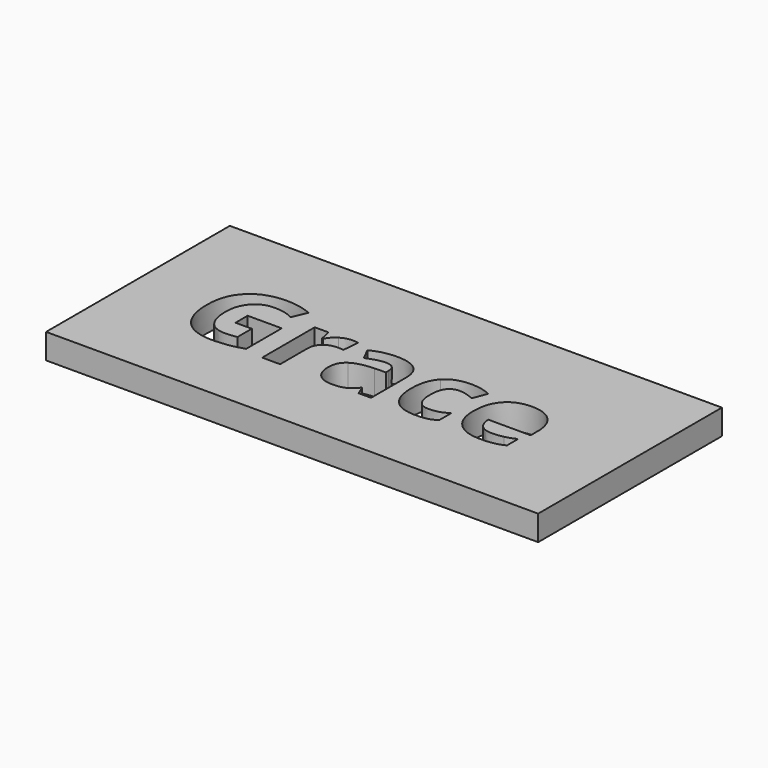
from build123d import *

# Parameters (mm, degrees)
F0_W     = 97.8876724839
F0_H     = 45.6908610649
F1_DEPTH = 5


with BuildPart() as f1:
    # F0 (on Top) → F1 (new body)
    with BuildSketch(Plane.XY):
        with Locations((1.2231161818, -8.5958049167)):
            Rectangle(F0_W, F0_H)
        with BuildLine():
            Line((-26.666582018, -10.6564535441), (-26.666582018, -7.637935464))
            Line((-26.666582018, -7.637935464), (-19.8852024899, -7.637935464))
            Line((-19.8852024899, -7.637935464), (-19.8852024899, -16.4989879196))
            add(Edge.make_bspline(
                [(-19.8852024899, -16.4989879196), (-21.53472724, -17.0376082461), (-22.9897502054, -17.2545525443)],
                knots=[0, 0, 0, 1, 1, 1], degree=2))
            add(Edge.make_bspline(
                [(-22.9897502054, -17.2545525443), (-24.4447731709, -17.4714968425), (-25.9633832583, -17.4714968425)],
                knots=[0, 0, 0, 1, 1, 1], degree=2))
            add(Edge.make_bspline(
                [(-25.9633832583, -17.4714968425), (-29.8309764364, -17.4714968425), (-31.8713749652, -15.1973221304)],
                knots=[0, 0, 0, 1, 1, 1], degree=2))
            add(Edge.make_bspline(
                [(-31.8713749652, -15.1973221304), (-33.9117734939, -12.9231474183), (-33.9117734939, -8.666550671)],
                knots=[0, 0, 0, 1, 1, 1], degree=2))
            add(Edge.make_bspline(
                [(-33.9117734939, -8.666550671), (-33.9117734939, -4.5296473295), (-31.5440883084, -2.2161982186)],
                knots=[0, 0, 0, 1, 1, 1], degree=2))
            add(Edge.make_bspline(
                [(-31.5440883084, -2.2161982186), (-29.1764031229, 0.0972508923), (-24.9833934975, 0.0972508923)],
                knots=[0, 0, 0, 1, 1, 1], degree=2))
            add(Edge.make_bspline(
                [(-24.9833934975, 0.0972508923), (-22.3501385677, 0.0972508923), (-19.9076450035, -0.9538068283)],
                knots=[0, 0, 0, 1, 1, 1], degree=2))
            Line((-19.9076450035, -0.9538068283), (-21.1120599004, -3.8526315024))
            add(Edge.make_bspline(
                [(-21.1120599004, -3.8526315024), (-22.9822693676, -2.9175267688), (-25.0058360111, -2.9175267688)],
                knots=[0, 0, 0, 1, 1, 1], degree=2))
            add(Edge.make_bspline(
                [(-25.0058360111, -2.9175267688), (-27.3548191019, -2.9175267688), (-28.7686974591, -4.4959835591)],
                knots=[0, 0, 0, 1, 1, 1], degree=2))
            add(Edge.make_bspline(
                [(-28.7686974591, -4.4959835591), (-30.1825758163, -6.0744403494), (-30.1825758163, -8.7376186307)],
                knots=[0, 0, 0, 1, 1, 1], degree=2))
            add(Edge.make_bspline(
                [(-30.1825758163, -8.7376186307), (-30.1825758163, -11.5204903179), (-29.0436182508, -12.9867345402)],
                knots=[0, 0, 0, 1, 1, 1], degree=2))
            add(Edge.make_bspline(
                [(-29.0436182508, -12.9867345402), (-27.9046606852, -14.4529787625), (-25.7314772844, -14.4529787625)],
                knots=[0, 0, 0, 1, 1, 1], degree=2))
            add(Edge.make_bspline(
                [(-25.7314772844, -14.4529787625), (-24.5943899283, -14.4529787625), (-23.4273792208, -14.2210727885)],
                knots=[0, 0, 0, 1, 1, 1], degree=2))
            Line((-23.4273792208, -14.2210727885), (-23.4273792208, -10.6564535441))
            Line((-23.4273792208, -10.6564535441), (-26.666582018, -10.6564535441))
        make_face(mode=Mode.SUBTRACT)
        with BuildLine():
            add(Edge.make_bspline(
                [(-11.0559435953, -4.5951046609), (-10.0217177599, -3.9236994622), (-8.8060816063, -3.9236994622)],
                knots=[0, 0, 0, 1, 1, 1], degree=2))
            add(Edge.make_bspline(
                [(-8.8060816063, -3.9236994622), (-8.080440333, -3.9236994622), (-7.6016667094, -4.0284311923)],
                knots=[0, 0, 0, 1, 1, 1], degree=2))
            Line((-7.6016667094, -4.0284311923), (-7.8709768727, -7.3686253007))
            add(Edge.make_bspline(
                [(-7.8709768727, -7.3686253007), (-8.304865469, -7.2526723138), (-8.9220345932, -7.2526723138)],
                knots=[0, 0, 0, 1, 1, 1], degree=2))
            add(Edge.make_bspline(
                [(-8.9220345932, -7.2526723138), (-10.6276656273, -7.2526723138), (-11.5814724556, -8.1298005539)],
                knots=[0, 0, 0, 1, 1, 1], degree=2))
            add(Edge.make_bspline(
                [(-11.5814724556, -8.1298005539), (-12.5352792838, -9.006928794), (-12.5352792838, -10.5853855843)],
                knots=[0, 0, 0, 1, 1, 1], degree=2))
            Line((-12.5352792838, -10.5853855843), (-12.5352792838, -17.2358504497))
            Line((-12.5352792838, -17.2358504497), (-16.0998985283, -17.2358504497))
            Line((-16.0998985283, -17.2358504497), (-16.0998985283, -4.1668266929))
            Line((-16.0998985283, -4.1668266929), (-13.3993160577, -4.1668266929))
            Line((-13.3993160577, -4.1668266929), (-12.8719169879, -6.3661930263))
            Line((-12.8719169879, -6.3661930263), (-12.699857717, -6.3661930263))
            add(Edge.make_bspline(
                [(-12.699857717, -6.3661930263), (-12.0901694306, -5.2665098596), (-11.0559435953, -4.5951046609)],
                knots=[0, 0, 0, 1, 1, 1], degree=2))
        make_face(mode=Mode.SUBTRACT)
        with BuildLine():
            Line((5.5571271018, -17.2358504497), (3.0697485104, -17.2358504497))
            Line((3.0697485104, -17.2358504497), (2.3777710076, -15.4591514558))
            Line((2.3777710076, -15.4591514558), (2.2842605342, -15.4591514558))
            add(Edge.make_bspline(
                [(2.2842605342, -15.4591514558), (1.3865599899, -16.5924983929), (0.4327531617, -17.0319976177)],
                knots=[0, 0, 0, 1, 1, 1], degree=2))
            add(Edge.make_bspline(
                [(0.4327531617, -17.0319976177), (-0.5210536666, -17.4714968425), (-2.0508850108, -17.4714968425)],
                knots=[0, 0, 0, 1, 1, 1], degree=2))
            add(Edge.make_bspline(
                [(-2.0508850108, -17.4714968425), (-3.9323157348, -17.4714968425), (-5.0132968068, -16.3942561894)],
                knots=[0, 0, 0, 1, 1, 1], degree=2))
            add(Edge.make_bspline(
                [(-5.0132968068, -16.3942561894), (-6.0942778788, -15.3170155363), (-6.0942778788, -13.3308530822)],
                knots=[0, 0, 0, 1, 1, 1], degree=2))
            add(Edge.make_bspline(
                [(-6.0942778788, -13.3308530822), (-6.0942778788, -11.2511801546), (-4.6392549133, -10.263709556)],
                knots=[0, 0, 0, 1, 1, 1], degree=2))
            add(Edge.make_bspline(
                [(-4.6392549133, -10.263709556), (-3.1842319479, -9.2762389573), (-0.2517435033, -9.1715072271)],
                knots=[0, 0, 0, 1, 1, 1], degree=2))
            Line((-0.2517435033, -9.1715072271), (2.0186907899, -9.1004392674))
            Line((2.0186907899, -9.1004392674), (2.0186907899, -8.5281551704))
            add(Edge.make_bspline(
                [(2.0186907899, -8.5281551704), (2.0186907899, -6.5419927162), (-0.0160971104, -6.5419927162)],
                knots=[0, 0, 0, 1, 1, 1], degree=2))
            add(Edge.make_bspline(
                [(-0.0160971104, -6.5419927162), (-1.583332644, -6.5419927162), (-3.7004097608, -7.4883187066)],
                knots=[0, 0, 0, 1, 1, 1], degree=2))
            Line((-3.7004097608, -7.4883187066), (-4.8786417252, -5.0794889129))
            add(Edge.make_bspline(
                [(-4.8786417252, -5.0794889129), (-2.6231691077, -3.8975165296), (0.1222983901, -3.8975165296)],
                knots=[0, 0, 0, 1, 1, 1], degree=2))
            add(Edge.make_bspline(
                [(0.1222983901, -3.8975165296), (2.751812901, -3.8975165296), (4.1544700014, -5.043954933)],
                knots=[0, 0, 0, 1, 1, 1], degree=2))
            add(Edge.make_bspline(
                [(4.1544700014, -5.043954933), (5.5571271018, -6.1903933364), (5.5571271018, -8.5281551704)],
                knots=[0, 0, 0, 1, 1, 1], degree=2))
            Line((5.5571271018, -8.5281551704), (5.5571271018, -17.2358504497))
        make_face(mode=Mode.SUBTRACT)
        with BuildLine():
            add(Edge.make_bspline(
                [(16.7634222292, -17.2601631727), (15.8806833607, -17.4714968425), (14.5378729632, -17.4714968425)],
                knots=[0, 0, 0, 1, 1, 1], degree=2))
            add(Edge.make_bspline(
                [(14.5378729632, -17.4714968425), (8.4372496813, -17.4714968425), (8.4372496813, -10.772406531)],
                knots=[0, 0, 0, 1, 1, 1], degree=2))
            add(Edge.make_bspline(
                [(8.4372496813, -10.772406531), (8.4372496813, -7.4396932605), (10.0961254787, -5.6816963613)],
                knots=[0, 0, 0, 1, 1, 1], degree=2))
            add(Edge.make_bspline(
                [(10.0961254787, -5.6816963613), (11.7550012761, -3.9236994622), (14.8520681537, -3.9236994622)],
                knots=[0, 0, 0, 1, 1, 1], degree=2))
            add(Edge.make_bspline(
                [(14.8520681537, -3.9236994622), (17.118762028, -3.9236994622), (18.9216439544, -4.8101787496)],
                knots=[0, 0, 0, 1, 1, 1], degree=2))
            Line((18.9216439544, -4.8101787496), (17.8668458149, -7.5706079232))
            add(Edge.make_bspline(
                [(17.8668458149, -7.5706079232), (17.0252515546, -7.2302298002), (16.3014804908, -7.013285502)],
                knots=[0, 0, 0, 1, 1, 1], degree=2))
            add(Edge.make_bspline(
                [(16.3014804908, -7.013285502), (15.577709427, -6.7963412038), (14.8520681537, -6.7963412038)],
                knots=[0, 0, 0, 1, 1, 1], degree=2))
            add(Edge.make_bspline(
                [(14.8520681537, -6.7963412038), (12.0691964666, -6.7963412038), (12.0691964666, -10.7499640174)],
                knots=[0, 0, 0, 1, 1, 1], degree=2))
            add(Edge.make_bspline(
                [(12.0691964666, -10.7499640174), (12.0691964666, -14.5838934252), (14.8520681537, -14.5838934252)],
                knots=[0, 0, 0, 1, 1, 1], degree=2))
            add(Edge.make_bspline(
                [(14.8520681537, -14.5838934252), (15.8806833607, -14.5838934252), (16.7578116008, -14.3089726335)],
                knots=[0, 0, 0, 1, 1, 1], degree=2))
            add(Edge.make_bspline(
                [(16.7578116008, -14.3089726335), (17.6349398409, -14.0340518418), (18.5101978716, -13.4468060691)],
                knots=[0, 0, 0, 1, 1, 1], degree=2))
            Line((18.5101978716, -13.4468060691), (18.5101978716, -16.4989879196))
            add(Edge.make_bspline(
                [(18.5101978716, -16.4989879196), (17.6461610977, -17.0488295029), (16.7634222292, -17.2601631727)],
                knots=[0, 0, 0, 1, 1, 1], degree=2))
        make_face(mode=Mode.SUBTRACT)
        with BuildLine():
            add(Edge.make_bspline(
                [(30.0493902842, -17.2433312875), (28.9871113068, -17.4714968425), (27.4535395437, -17.4714968425)],
                knots=[0, 0, 0, 1, 1, 1], degree=2))
            add(Edge.make_bspline(
                [(27.4535395437, -17.4714968425), (24.300366382, -17.4714968425), (22.5236673882, -15.7284616191)],
                knots=[0, 0, 0, 1, 1, 1], degree=2))
            add(Edge.make_bspline(
                [(22.5236673882, -15.7284616191), (20.7469683943, -13.9854263957), (20.7469683943, -10.7948490446)],
                knots=[0, 0, 0, 1, 1, 1], degree=2))
            add(Edge.make_bspline(
                [(20.7469683943, -10.7948490446), (20.7469683943, -7.5107612202), (22.3890123065, -5.7172303412)],
                knots=[0, 0, 0, 1, 1, 1], degree=2))
            add(Edge.make_bspline(
                [(22.3890123065, -5.7172303412), (24.0310562187, -3.9236994622), (26.9298808929, -3.9236994622)],
                knots=[0, 0, 0, 1, 1, 1], degree=2))
            add(Edge.make_bspline(
                [(26.9298808929, -3.9236994622), (29.6977909043, -3.9236994622), (31.2407137148, -5.500286043)],
                knots=[0, 0, 0, 1, 1, 1], degree=2))
            add(Edge.make_bspline(
                [(31.2407137148, -5.500286043), (32.7836365252, -7.0768726239), (32.7836365252, -9.859744311)],
                knots=[0, 0, 0, 1, 1, 1], degree=2))
            Line((32.7836365252, -9.859744311), (32.7836365252, -11.5915582777))
            Line((32.7836365252, -11.5915582777), (24.356472666, -11.5915582777))
            add(Edge.make_bspline(
                [(24.356472666, -11.5915582777), (24.416319369, -13.110168365), (25.2579136292, -13.9629838821)],
                knots=[0, 0, 0, 1, 1, 1], degree=2))
            add(Edge.make_bspline(
                [(25.2579136292, -13.9629838821), (26.0995078894, -14.8157993991), (27.6181179768, -14.8157993991)],
                knots=[0, 0, 0, 1, 1, 1], degree=2))
            add(Edge.make_bspline(
                [(27.6181179768, -14.8157993991), (28.8000903601, -14.8157993991), (29.8511480806, -14.5708019589)],
                knots=[0, 0, 0, 1, 1, 1], degree=2))
            add(Edge.make_bspline(
                [(29.8511480806, -14.5708019589), (30.9022058012, -14.3258045187), (32.0467739951, -13.7871841921)],
                knots=[0, 0, 0, 1, 1, 1], degree=2))
            Line((32.0467739951, -13.7871841921), (32.0467739951, -16.5476133657))
            add(Edge.make_bspline(
                [(32.0467739951, -16.5476133657), (31.1116692615, -17.0151657325), (30.0493902842, -17.2433312875)],
                knots=[0, 0, 0, 1, 1, 1], degree=2))
        make_face(mode=Mode.SUBTRACT)
    extrude(amount=F1_DEPTH)


solid = f1.part
